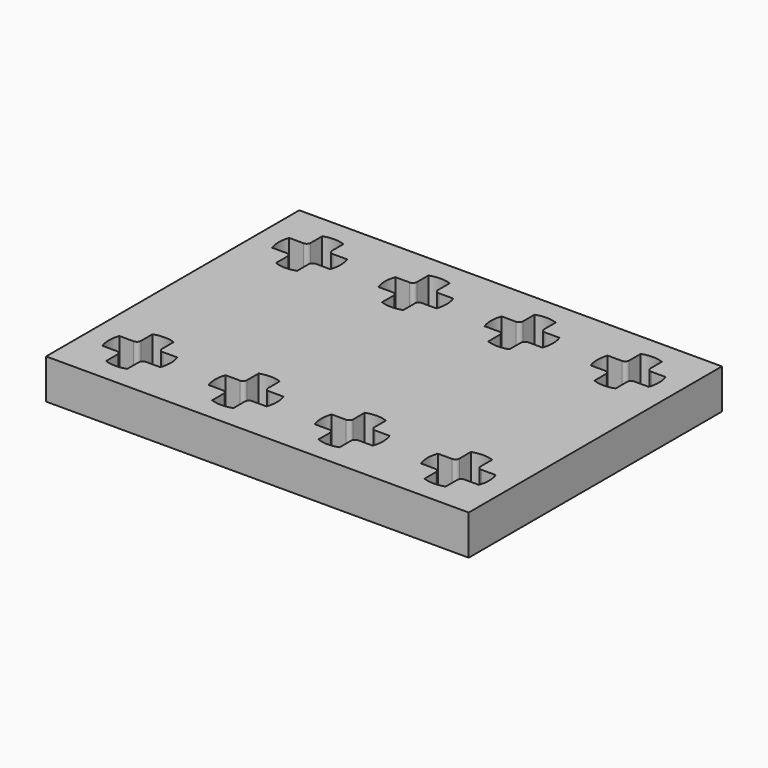
from build123d import *

# Parameters (mm, degrees)
F0_W     = 31.85
F0_H     = 23.85
F1_DEPTH = 3


with BuildPart() as f1:
    # F0 (on Top) → F1 (new body)
    with BuildSketch(Plane.XY):
        Rectangle(F0_W, F0_H)
        with BuildLine():
            Line((-11.2, -9.1), (-11.2, -10.183031))
            ThreePointArc((-11.2, -10.183031), (-12, -10.325), (-12.8, -10.183031))
            Line((-12.8, -10.183031), (-12.8, -9.1))
            ThreePointArc((-12.8, -9.1), (-12.887868, -8.887868), (-13.1, -8.8))
            Line((-13.1, -8.8), (-14.183031, -8.8))
            ThreePointArc((-14.183031, -8.8), (-14.325, -8), (-14.183031, -7.2))
            Line((-14.183031, -7.2), (-13.1, -7.2))
            ThreePointArc((-13.1, -7.2), (-12.887868, -7.112132), (-12.8, -6.9))
            Line((-12.8, -6.9), (-12.8, -5.816969))
            ThreePointArc((-12.8, -5.816969), (-12, -5.675), (-11.2, -5.816969))
            Line((-11.2, -5.816969), (-11.2, -6.9))
            ThreePointArc((-11.2, -6.9), (-11.112132, -7.112132), (-10.9, -7.2))
            Line((-10.9, -7.2), (-9.816969, -7.2))
            ThreePointArc((-9.816969, -7.2), (-9.675, -8), (-9.816969, -8.8))
            Line((-9.816969, -8.8), (-10.9, -8.8))
            ThreePointArc((-10.9, -8.8), (-11.112132, -8.887868), (-11.2, -9.1))
        make_face(mode=Mode.SUBTRACT)
        with BuildLine():
            ThreePointArc((-5.1, -7.2), (-4.887868, -7.112132), (-4.8, -6.9))
            Line((-4.8, -6.9), (-4.8, -5.816969))
            ThreePointArc((-4.8, -5.816969), (-4, -5.675), (-3.2, -5.816969))
            Line((-3.2, -5.816969), (-3.2, -6.9))
            ThreePointArc((-3.2, -6.9), (-3.112132, -7.112132), (-2.9, -7.2))
            Line((-2.9, -7.2), (-1.816969, -7.2))
            ThreePointArc((-1.816969, -7.2), (-1.675, -8), (-1.816969, -8.8))
            Line((-1.816969, -8.8), (-2.9, -8.8))
            ThreePointArc((-2.9, -8.8), (-3.112132, -8.887868), (-3.2, -9.1))
            Line((-3.2, -9.1), (-3.2, -10.183031))
            ThreePointArc((-3.2, -10.183031), (-4, -10.325), (-4.8, -10.183031))
            Line((-4.8, -10.183031), (-4.8, -9.1))
            ThreePointArc((-4.8, -9.1), (-4.887868, -8.887868), (-5.1, -8.8))
            Line((-5.1, -8.8), (-6.183031, -8.8))
            ThreePointArc((-6.183031, -8.8), (-6.325, -8), (-6.183031, -7.2))
            Line((-6.183031, -7.2), (-5.1, -7.2))
        make_face(mode=Mode.SUBTRACT)
        with BuildLine():
            Line((4.8, -9.1), (4.8, -10.183031))
            ThreePointArc((4.8, -10.183031), (4, -10.325), (3.2, -10.183031))
            Line((3.2, -10.183031), (3.2, -9.1))
            ThreePointArc((3.2, -9.1), (3.112132, -8.887868), (2.9, -8.8))
            Line((2.9, -8.8), (1.816969, -8.8))
            ThreePointArc((1.816969, -8.8), (1.675, -8), (1.816969, -7.2))
            Line((1.816969, -7.2), (2.9, -7.2))
            ThreePointArc((2.9, -7.2), (3.112132, -7.112132), (3.2, -6.9))
            Line((3.2, -6.9), (3.2, -5.816969))
            ThreePointArc((3.2, -5.816969), (4, -5.675), (4.8, -5.816969))
            Line((4.8, -5.816969), (4.8, -6.9))
            ThreePointArc((4.8, -6.9), (4.887868, -7.112132), (5.1, -7.2))
            Line((5.1, -7.2), (6.183031, -7.2))
            ThreePointArc((6.183031, -7.2), (6.325, -8), (6.183031, -8.8))
            Line((6.183031, -8.8), (5.1, -8.8))
            ThreePointArc((5.1, -8.8), (4.887868, -8.887868), (4.8, -9.1))
        make_face(mode=Mode.SUBTRACT)
        with BuildLine():
            ThreePointArc((12.8, -6.9), (12.887868, -7.112132), (13.1, -7.2))
            Line((13.1, -7.2), (14.183031, -7.2))
            ThreePointArc((14.183031, -7.2), (14.325, -8), (14.183031, -8.8))
            Line((14.183031, -8.8), (13.1, -8.8))
            ThreePointArc((13.1, -8.8), (12.887868, -8.887868), (12.8, -9.1))
            Line((12.8, -9.1), (12.8, -10.183031))
            ThreePointArc((12.8, -10.183031), (12, -10.325), (11.2, -10.183031))
            Line((11.2, -10.183031), (11.2, -9.1))
            ThreePointArc((11.2, -9.1), (11.112132, -8.887868), (10.9, -8.8))
            Line((10.9, -8.8), (9.816969, -8.8))
            ThreePointArc((9.816969, -8.8), (9.675, -8), (9.816969, -7.2))
            Line((9.816969, -7.2), (10.9, -7.2))
            ThreePointArc((10.9, -7.2), (11.112132, -7.112132), (11.2, -6.9))
            Line((11.2, -6.9), (11.2, -5.816969))
            ThreePointArc((11.2, -5.816969), (12, -5.675), (12.8, -5.816969))
            Line((12.8, -5.816969), (12.8, -6.9))
        make_face(mode=Mode.SUBTRACT)
        with BuildLine():
            ThreePointArc((-12.8, 10.183031), (-12, 10.325), (-11.2, 10.183031))
            Line((-11.2, 10.183031), (-11.2, 9.1))
            ThreePointArc((-11.2, 9.1), (-11.112132, 8.887868), (-10.9, 8.8))
            Line((-10.9, 8.8), (-9.816969, 8.8))
            ThreePointArc((-9.816969, 8.8), (-9.675, 8), (-9.816969, 7.2))
            Line((-9.816969, 7.2), (-10.9, 7.2))
            ThreePointArc((-10.9, 7.2), (-11.112132, 7.112132), (-11.2, 6.9))
            Line((-11.2, 6.9), (-11.2, 5.816969))
            ThreePointArc((-11.2, 5.816969), (-12, 5.675), (-12.8, 5.816969))
            Line((-12.8, 5.816969), (-12.8, 6.9))
            ThreePointArc((-12.8, 6.9), (-12.887868, 7.112132), (-13.1, 7.2))
            Line((-13.1, 7.2), (-14.183031, 7.2))
            ThreePointArc((-14.183031, 7.2), (-14.325, 8), (-14.183031, 8.8))
            Line((-14.183031, 8.8), (-13.1, 8.8))
            ThreePointArc((-13.1, 8.8), (-12.887868, 8.887868), (-12.8, 9.1))
            Line((-12.8, 9.1), (-12.8, 10.183031))
        make_face(mode=Mode.SUBTRACT)
        with BuildLine():
            ThreePointArc((-4.8, 10.183031), (-4, 10.325), (-3.2, 10.183031))
            Line((-3.2, 10.183031), (-3.2, 9.1))
            ThreePointArc((-3.2, 9.1), (-3.112132, 8.887868), (-2.9, 8.8))
            Line((-2.9, 8.8), (-1.816969, 8.8))
            ThreePointArc((-1.816969, 8.8), (-1.675, 8), (-1.816969, 7.2))
            Line((-1.816969, 7.2), (-2.9, 7.2))
            ThreePointArc((-2.9, 7.2), (-3.112132, 7.112132), (-3.2, 6.9))
            Line((-3.2, 6.9), (-3.2, 5.816969))
            ThreePointArc((-3.2, 5.816969), (-4, 5.675), (-4.8, 5.816969))
            Line((-4.8, 5.816969), (-4.8, 6.9))
            ThreePointArc((-4.8, 6.9), (-4.887868, 7.112132), (-5.1, 7.2))
            Line((-5.1, 7.2), (-6.183031, 7.2))
            ThreePointArc((-6.183031, 7.2), (-6.325, 8), (-6.183031, 8.8))
            Line((-6.183031, 8.8), (-5.1, 8.8))
            ThreePointArc((-5.1, 8.8), (-4.887868, 8.887868), (-4.8, 9.1))
            Line((-4.8, 9.1), (-4.8, 10.183031))
        make_face(mode=Mode.SUBTRACT)
        with BuildLine():
            ThreePointArc((3.2, 10.183031), (4, 10.325), (4.8, 10.183031))
            Line((4.8, 10.183031), (4.8, 9.1))
            ThreePointArc((4.8, 9.1), (4.887868, 8.887868), (5.1, 8.8))
            Line((5.1, 8.8), (6.183031, 8.8))
            ThreePointArc((6.183031, 8.8), (6.325, 8), (6.183031, 7.2))
            Line((6.183031, 7.2), (5.1, 7.2))
            ThreePointArc((5.1, 7.2), (4.887868, 7.112132), (4.8, 6.9))
            Line((4.8, 6.9), (4.8, 5.816969))
            ThreePointArc((4.8, 5.816969), (4, 5.675), (3.2, 5.816969))
            Line((3.2, 5.816969), (3.2, 6.9))
            ThreePointArc((3.2, 6.9), (3.112132, 7.112132), (2.9, 7.2))
            Line((2.9, 7.2), (1.816969, 7.2))
            ThreePointArc((1.816969, 7.2), (1.675, 8), (1.816969, 8.8))
            Line((1.816969, 8.8), (2.9, 8.8))
            ThreePointArc((2.9, 8.8), (3.112132, 8.887868), (3.2, 9.1))
            Line((3.2, 9.1), (3.2, 10.183031))
        make_face(mode=Mode.SUBTRACT)
        with BuildLine():
            ThreePointArc((11.2, 10.183031), (12, 10.325), (12.8, 10.183031))
            Line((12.8, 10.183031), (12.8, 9.1))
            ThreePointArc((12.8, 9.1), (12.887868, 8.887868), (13.1, 8.8))
            Line((13.1, 8.8), (14.183031, 8.8))
            ThreePointArc((14.183031, 8.8), (14.325, 8), (14.183031, 7.2))
            Line((14.183031, 7.2), (13.1, 7.2))
            ThreePointArc((13.1, 7.2), (12.887868, 7.112132), (12.8, 6.9))
            Line((12.8, 6.9), (12.8, 5.816969))
            ThreePointArc((12.8, 5.816969), (12, 5.675), (11.2, 5.816969))
            Line((11.2, 5.816969), (11.2, 6.9))
            ThreePointArc((11.2, 6.9), (11.112132, 7.112132), (10.9, 7.2))
            Line((10.9, 7.2), (9.816969, 7.2))
            ThreePointArc((9.816969, 7.2), (9.675, 8), (9.816969, 8.8))
            Line((9.816969, 8.8), (10.9, 8.8))
            ThreePointArc((10.9, 8.8), (11.112132, 8.887868), (11.2, 9.1))
            Line((11.2, 9.1), (11.2, 10.183031))
        make_face(mode=Mode.SUBTRACT)
    extrude(amount=F1_DEPTH)


solid = f1.part
